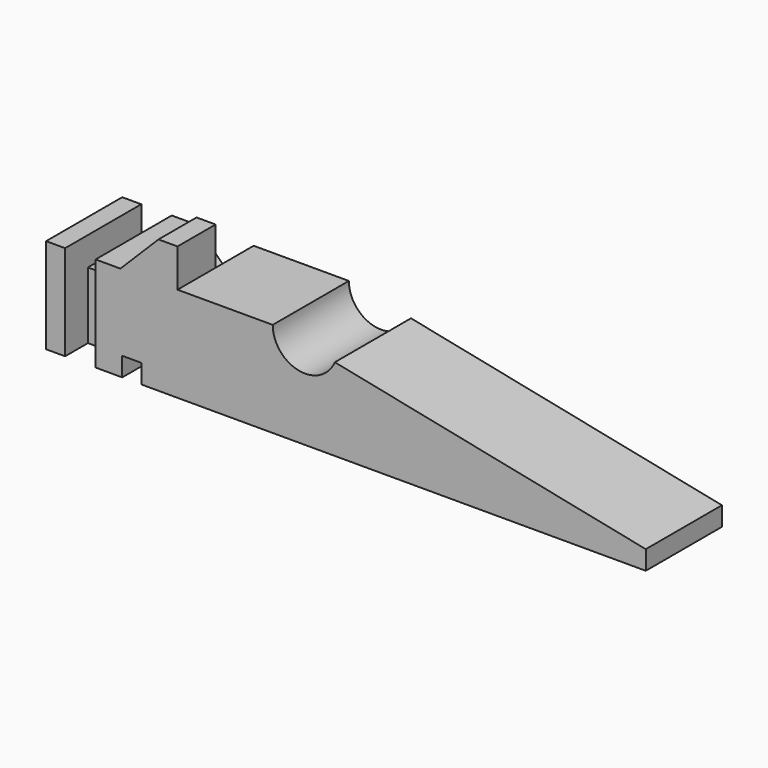
from build123d import *

# Parameters (mm, degrees)
PAD_DEPTH       = 10
SKETCH001_R     = 3.4
POCKET_DEPTH    = 10.001
PAD001_DEPTH    = 5
POCKET001_DEPTH = 5
SKETCH004_W     = 3.2
SKETCH004_H     = 10
POCKET002_DEPTH = 3
SKETCH005_W     = 3.2
SKETCH005_H     = 7
POCKET003_DEPTH = 3
SKETCH006_W     = 3.2
SKETCH006_H     = 7
POCKET004_DEPTH = 3


with BuildPart() as part:
    # Sketch → Pad (new body)
    with BuildSketch(Plane.XZ):
        Polygon((0.868689, 3.613865), (-52.131311, 3.613865), (-52.131311, 5.613865), (-54.131311, 5.613865), (-54.131311, 3.613865), (-62.131311, 3.613865), (-62.131311, 13.613865), (-38.323146, 13.613865), (0.868689, 5.613865), align=None)
    extrude(amount=PAD_DEPTH)

    # Sketch001 → Pocket (cut, through all)
    with BuildSketch(Plane.XZ.offset(10)):
        with Locations((-34.923146, 13.613865)):
            Circle(SKETCH001_R)
    extrude(amount=-POCKET_DEPTH, mode=Mode.SUBTRACT)

    # Sketch002 → Pad001 (new body)
    with BuildSketch(Plane.XZ.offset(10)):
        Polygon((-48.323146, 13.613865), (-48.323146, 17.613865), (-50.323146, 17.613865), (-54.323146, 13.613865), align=None)
    extrude(amount=-PAD001_DEPTH)

    # Sketch003 → Pocket001 (cut)
    with BuildSketch(Plane(origin=(0, 0, 0), x_dir=(1, 0, 0), z_dir=(0, 1, 0))):
        Polygon((-48.323146, -13.613865), (-48.323146, -9.613865), (-50.323146, -9.613865), (-54.323146, -13.613865), align=None)
    extrude(amount=-POCKET001_DEPTH, mode=Mode.SUBTRACT)

    # Sketch004 → Pocket002 (cut)
    with BuildSketch(Plane(origin=(0, 0, 13.613865), x_dir=(-1, 0, 0), z_dir=(0, 0, 1))):
        with Locations((58.531311, 5)):
            Rectangle(SKETCH004_W, SKETCH004_H)
    extrude(amount=-POCKET002_DEPTH, mode=Mode.SUBTRACT)

    # Sketch005 → Pocket003 (cut)
    with BuildSketch(Plane.XZ.offset(10)):
        with Locations((-58.531311, 7.113865)):
            Rectangle(SKETCH005_W, SKETCH005_H)
    extrude(amount=-POCKET003_DEPTH, mode=Mode.SUBTRACT)

    # Sketch006 → Pocket004 (cut)
    with BuildSketch(Plane(origin=(0, 0, 0), x_dir=(1, 0, 0), z_dir=(0, 1, 0))):
        with Locations((-58.531311, -7.113865)):
            Rectangle(SKETCH006_W, SKETCH006_H)
    extrude(amount=-POCKET004_DEPTH, mode=Mode.SUBTRACT)


solid = part.part
